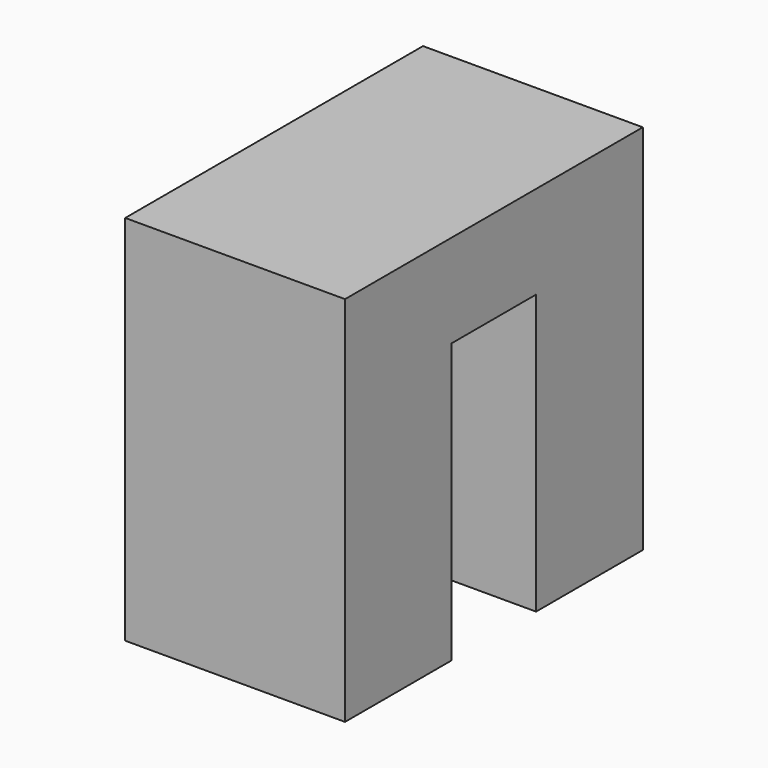
from build123d import *

# Parameters (mm, degrees)
F0_W     = 15.24
F0_H     = 15.24
F1_DEPTH = 9
F2_W     = 2
F2_H     = 11.43
F3_DEPTH = 12.7
F4_W     = 4.318
F4_H     = 11.43
F5_DEPTH = 3.6


with BuildPart() as f1:
    # F0 (on Right) → F1 (new body)
    with BuildSketch(Plane.YZ):
        with Locations((-7.62, 7.62)):
            Rectangle(F0_W, F0_H)
    extrude(amount=F1_DEPTH)

    # F2 (on face) → F3 (cut)
    with BuildSketch(Plane(origin=(0, 0, 0), x_dir=(1, 0, 0), z_dir=(0, 0, -1))):
        with Locations((4.5, 7.62)):
            Rectangle(F2_W, F2_H)
    extrude(amount=-F3_DEPTH, mode=Mode.SUBTRACT)

    # F4 (on face) → F5 (cut)
    with BuildSketch(Plane.YZ.offset(9)):
        with Locations((-7.62, 5.715)):
            Rectangle(F4_W, F4_H)
    extrude(amount=-F5_DEPTH, mode=Mode.SUBTRACT)


solid = f1.part
